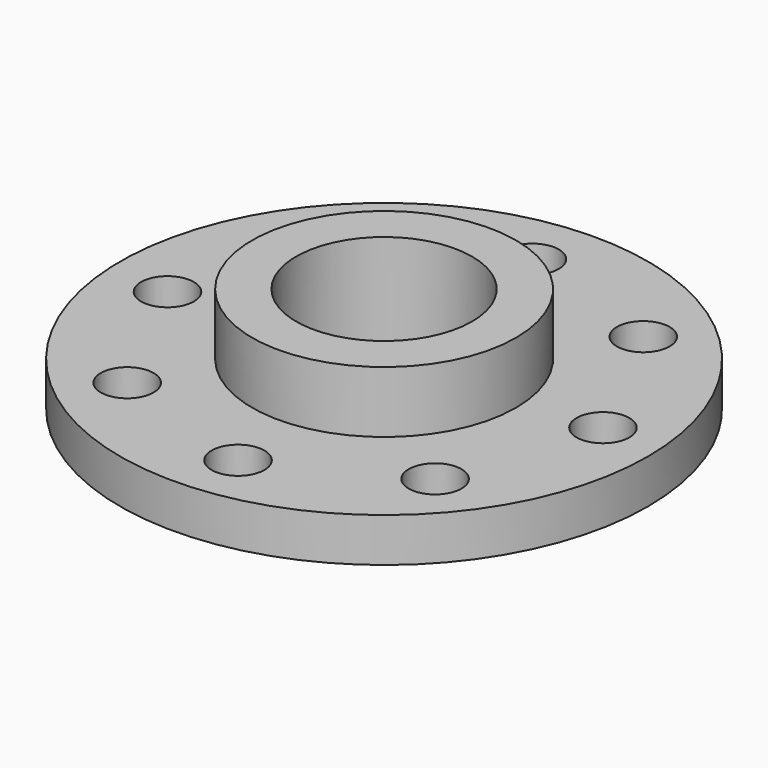
from build123d import *

# Parameters (mm, degrees)
CYLINDER003_R         = 3
CYLINDER003_DEPTH     = 10
ARRAY_COUNT           = 8
ARRAY_PLACEMENT_ANGLE = 355
CYLINDER002_R         = 10
CYLINDER002_DEPTH     = 30
CYLINDER001_R         = 15
CYLINDER001_DEPTH     = 12
CYLINDER_R            = 30
CYLINDER_DEPTH        = 5


with BuildPart() as array:
    # Cylinder003 → Cylinder003 (new body)
    with BuildSketch(Plane(origin=(22, 0, -1), x_dir=(1, 0, 0), z_dir=(0, 0, 1))):
        Circle(CYLINDER003_R)
    extrude(amount=CYLINDER003_DEPTH)

    # Array: Array ×8 about axis
    array_axis = Axis((45, 3.89, 0), (0, 0, 1))


with BuildPart() as array_1:
    add(array.part)
    for i in range(1, ARRAY_COUNT):
        add(array.part.rotate(array_axis, i * 360 / ARRAY_COUNT))


with BuildPart() as array_2:
    # Array placement: moved
    add(array_1.part.moved(Location((-45, 0, 0))).rotate(Axis((-45, 0, 0), (0, 0, 1)), ARRAY_PLACEMENT_ANGLE))


with BuildPart() as cylinder002:
    # Cylinder002 → Cylinder002 (new body)
    with BuildSketch(Plane.XY.offset(-1)):
        Circle(CYLINDER002_R)
    extrude(amount=CYLINDER002_DEPTH)


with BuildPart() as cylinder001:
    # Cylinder001 → Cylinder001 (new body)
    with BuildSketch(Plane.XY):
        Circle(CYLINDER001_R)
    extrude(amount=CYLINDER001_DEPTH)


with BuildPart() as cut001:
    # Cylinder → Cylinder (new body)
    with BuildSketch(Plane.XY):
        Circle(CYLINDER_R)
    extrude(amount=CYLINDER_DEPTH)

    # Fusion: union Cylinder001
    add(cylinder001.part)

    # Cut: cut Cylinder002
    add(cylinder002.part, mode=Mode.SUBTRACT)

    # Cut001: cut Array
    add(array_2.part, mode=Mode.SUBTRACT)


solid = cut001.part
